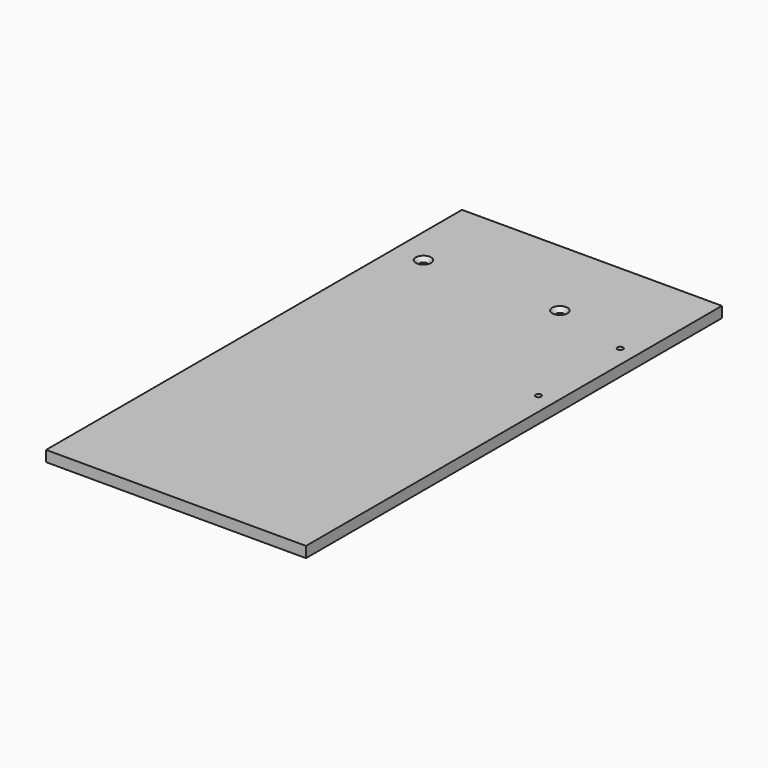
from build123d import *

# Parameters (mm, degrees)
F0_W           = 152.4
F0_H           = 304.8
F1_DEPTH       = 6.35
F3_D           = 4.4
F3_CSINK_D     = 8.96
F3_CSINK_ANGLE = 90
F5_D           = 3.3


with BuildPart() as f1:
    # F0 (on Top) → F1 (new body)
    with BuildSketch(Plane.XY):
        with Locations((76.2, 152.4)):
            Rectangle(F0_W, F0_H)
    extrude(amount=-F1_DEPTH)

    # F3 (through all)
    with Locations(Plane.XY):
        with Locations((97.4, 254.8), (17.4, 254.8)):
            CounterSinkHole(F3_D / 2, F3_CSINK_D / 2, counter_sink_angle=F3_CSINK_ANGLE)

    # F5 (through all)
    with Locations(Plane.XY):
        with Locations((142.4, 242.8), (142.4, 182.8)):
            Hole(F5_D / 2)


solid = f1.part
